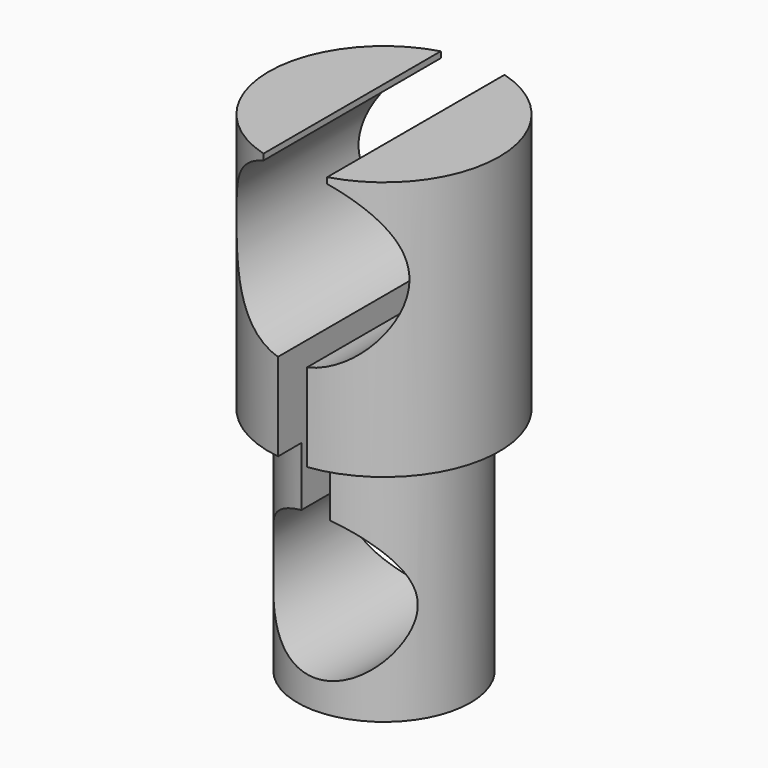
from build123d import *

# Parameters (mm, degrees)
F0_R     = 1.5
F1_DEPTH = 4
F0_R_2   = 2
F2_DEPTH = 4.5
F4_DEPTH = 2.5


with BuildPart() as f1:
    # F0 (on Top) → F1 (new body)
    with BuildSketch(Plane.XY):
        Circle(F0_R)
    extrude(amount=-F1_DEPTH)

    # F0 (on Top) → F2 (join)
    with BuildSketch(Plane.XY):
        Circle(F0_R_2)
        Circle(F0_R, mode=Mode.SUBTRACT)
        Circle(F0_R)
    extrude(amount=F2_DEPTH)

    # F3 (on Front) → F4 (cut, symmetric)
    with BuildSketch(Plane.XZ):
        with BuildLine():
            ThreePointArc((0.25, 1.5209800542), (1.1456439237, 2.0317541634), (1.5, 3))
            ThreePointArc((1.5, 3), (1.2408554332, 3.8427798015), (0.5529629416, 4.3943571943))
            Line((0.5529629416, 4.3943571943), (-0.5529629416, 4.3943571943))
            ThreePointArc((-0.5529629416, 4.3943571943), (-1.4917310142, 2.8427149678), (-0.25, 1.5209800542))
            Line((-0.25, 1.5209800542), (0.25, 1.5209800542))
        make_face()
        with BuildLine():
            Line((-0.5529629416, 4.3943571943), (0.5529629416, 4.3943571943))
            ThreePointArc((0.5529629416, 4.3943571943), (0.2814819786, 4.473352604), (0, 4.5))
            ThreePointArc((0, 4.5), (-0.2814819786, 4.473352604), (-0.5529629416, 4.3943571943))
        make_face()
        with BuildLine():
            ThreePointArc((0, 4.5), (0.2814819786, 4.473352604), (0.5529629416, 4.3943571943))
            Line((0.5529629416, 4.3943571943), (0.5529629416, 4.5))
            Line((0.5529629416, 4.5), (0, 4.5))
        make_face()
        with BuildLine():
            Line((0.25, -1.0252551286), (0.25, 1.5209800542))
            ThreePointArc((0.25, 1.5209800542), (0, 1.5), (-0.25, 1.5209800542))
            Line((-0.25, 1.5209800542), (-0.25, -1.0252551286))
            ThreePointArc((-0.25, -1.0252551286), (0, -1), (0.25, -1.0252551286))
        make_face()
        with BuildLine():
            ThreePointArc((-0.25, 1.5209800542), (0, 1.5), (0.25, 1.5209800542))
            Line((0.25, 1.5209800542), (-0.25, 1.5209800542))
        make_face()
        with BuildLine():
            ThreePointArc((-0.5529629416, 4.3943571943), (-0.2814819786, 4.473352604), (0, 4.5))
            Line((0, 4.5), (-0.5529629416, 4.5))
            Line((-0.5529629416, 4.5), (-0.5529629416, 4.3943571943))
        make_face()
        with BuildLine():
            Line((-0.25, -1.0252551286), (0.25, -1.0252551286))
            ThreePointArc((0.25, -1.0252551286), (0, -1), (-0.25, -1.0252551286))
        make_face()
        with BuildLine():
            ThreePointArc((1.25, -2.25), (0.9682458366, -1.459430585), (0.25, -1.0252551286))
            Line((0.25, -1.0252551286), (-0.25, -1.0252551286))
            ThreePointArc((-0.25, -1.0252551286), (-0.790569415, -3.2182458366), (1.25, -2.25))
        make_face()
    extrude(amount=F4_DEPTH, both=True, mode=Mode.SUBTRACT)


solid = f1.part
